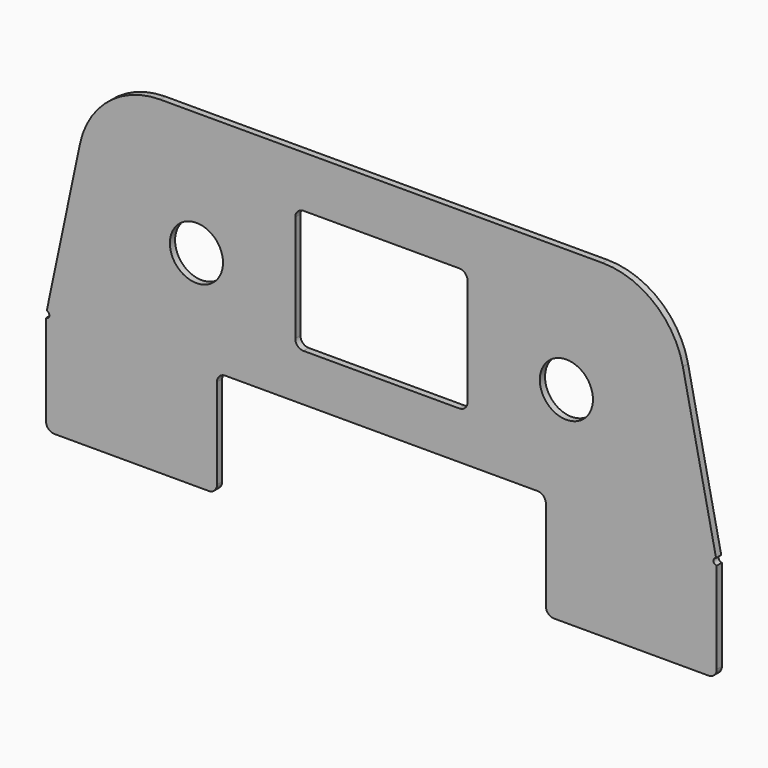
from build123d import *

# Parameters (mm, degrees)
F0_R     = 4.1021
F1_DEPTH = 1.00076


with BuildPart() as f1:
    # F0 (on Front) → F1 (new body)
    with BuildSketch(Plane.XZ):
        with BuildLine():
            Line((34.145295, 19.05), (0, 19.05))
            Line((0, 19.05), (-34.145295, 19.05))
            ThreePointArc((-34.145295, 19.05), (-42.14725, 16.211983), (-46.572877, 8.966333))
            Line((-46.572877, 8.966333), (-51.697978, -15.377897))
            ThreePointArc((-51.697978, -15.377897), (-51.297363, -15.92761), (-51.802632, -16.383))
            Line((-51.802632, -16.383), (-51.802632, -30.48))
            ThreePointArc((-51.802632, -30.48), (-51.430657, -31.378026), (-50.532632, -31.75))
            Line((-50.532632, -31.75), (-26.67, -31.75))
            ThreePointArc((-26.67, -31.75), (-25.771974, -31.378026), (-25.4, -30.48))
            Line((-25.4, -30.48), (-25.4, -16.51))
            ThreePointArc((-25.4, -16.51), (-25.028026, -15.611974), (-24.13, -15.24))
            Line((-24.13, -15.24), (0, -15.24))
            Line((0, -15.24), (24.13, -15.24))
            ThreePointArc((24.13, -15.24), (25.028026, -15.611974), (25.4, -16.51))
            Line((25.4, -16.51), (25.4, -30.48))
            ThreePointArc((25.4, -30.48), (25.771974, -31.378026), (26.67, -31.75))
            Line((26.67, -31.75), (50.532632, -31.75))
            ThreePointArc((50.532632, -31.75), (51.430657, -31.378026), (51.802632, -30.48))
            Line((51.802632, -30.48), (51.802632, -16.383))
            ThreePointArc((51.802632, -16.383), (51.297363, -15.92761), (51.697978, -15.377897))
            Line((51.697978, -15.377897), (46.572877, 8.966333))
            ThreePointArc((46.572877, 8.966333), (42.14725, 16.211983), (34.145295, 19.05))
        make_face()
        with Locations((-28.575, 0)):
            Circle(F0_R, mode=Mode.SUBTRACT)
        with BuildLine():
            Line((0, -7.9375), (-12.035152, -7.9375))
            ThreePointArc((-12.035152, -7.9375), (-12.933177, -7.565526), (-13.305152, -6.6675))
            Line((-13.305152, -6.6675), (-13.305152, 9.8425))
            ThreePointArc((-13.305152, 9.8425), (-12.933177, 10.740526), (-12.035152, 11.1125))
            Line((-12.035152, 11.1125), (0, 11.1125))
            Line((0, 11.1125), (12.035152, 11.1125))
            ThreePointArc((12.035152, 11.1125), (12.933177, 10.740526), (13.305152, 9.8425))
            Line((13.305152, 9.8425), (13.305152, -6.6675))
            ThreePointArc((13.305152, -6.6675), (12.933177, -7.565526), (12.035152, -7.9375))
            Line((12.035152, -7.9375), (0, -7.9375))
        make_face(mode=Mode.SUBTRACT)
        with Locations((28.575, 0)):
            Circle(F0_R, mode=Mode.SUBTRACT)
    extrude(amount=F1_DEPTH)


solid = f1.part
